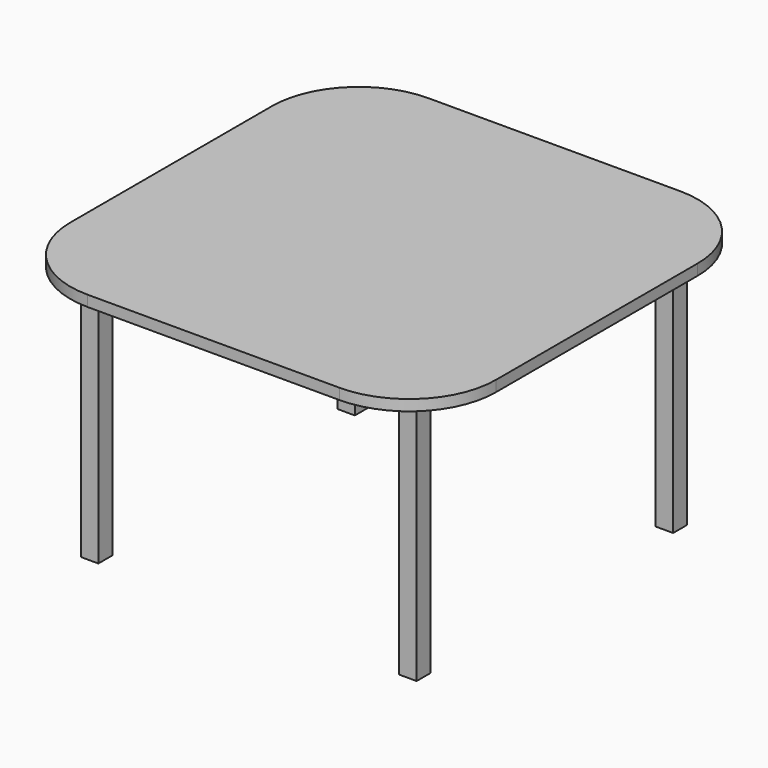
from build123d import *

# Parameters (mm, degrees)
F1_DEPTH = 25
F2_W     = 40
F2_H     = 40
F3_DEPTH = 579


with BuildPart() as f1:
    # F0 (on Top) → F1 (new body)
    with BuildSketch(Plane.XY):
        with BuildLine():
            ThreePointArc((0, 200), (58.578644, 58.578644), (200, 0))
            Line((200, 0), (780, 0))
            ThreePointArc((780, 0), (921.421356, 58.578644), (980, 200))
            Line((980, 200), (980, 780))
            ThreePointArc((980, 780), (921.421356, 921.421356), (780, 980))
            Line((780, 980), (200, 980))
            ThreePointArc((200, 980), (58.578644, 921.421356), (0, 780))
            Line((0, 780), (0, 200))
        make_face()
    extrude(amount=F1_DEPTH)

    # F2 (on face) → F3 (join)
    with BuildSketch(Plane(origin=(0, 0, 0), x_dir=(1, 0, 0), z_dir=(0, 0, -1))):
        with Locations((123.71875, -121.000011)):
            Rectangle(F2_W, F2_H)
        with Locations((856.28125, -121.000011)):
            Rectangle(F2_W, F2_H)
        with Locations((123.71875, -858.999989)):
            Rectangle(F2_W, F2_H)
        with Locations((856.28125, -858.999989)):
            Rectangle(F2_W, F2_H)
    extrude(amount=F3_DEPTH)


solid = f1.part
